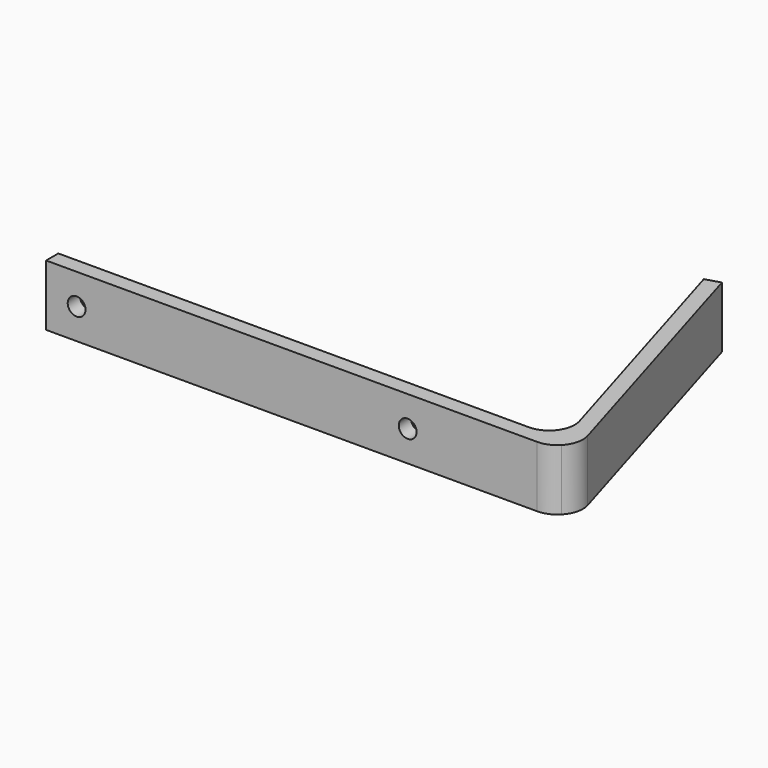
from build123d import *

# Parameters (mm, degrees)
F1_DEPTH = 12
F2_R     = 1.75
F3_DEPTH = 25
F4_R     = 1.75
F5_DEPTH = 3


with BuildPart() as f1:
    # F0 (on Top) → F1 (new body)
    with BuildSketch(Plane.XY):
        with BuildLine():
            Line((27.767113, -2.79632), (-64.62246, -2.79632))
            Line((-64.62246, -2.79632), (-64.62246, -5.79632))
            Line((-64.62246, -5.79632), (31.795225, -5.79632))
            ThreePointArc((31.795225, -5.79632), (33.739366, -5.402871), (35.37754, -4.284446))
            ThreePointArc((35.37754, -4.284446), (36.650982, -1.988637), (36.585713, 0.635888))
            Line((36.585713, 0.635888), (20.862872, 53.226081))
            Line((20.862872, 53.226081), (17.988579, 52.366756))
            Line((17.988579, 52.366756), (32.557601, 3.635888))
            ThreePointArc((32.557601, 3.635888), (31.777165, -0.78287), (27.767113, -2.79632))
        make_face()
    extrude(amount=F1_DEPTH)

    # F2 (on face) → F3 (cut)
    with BuildSketch(Plane.XZ.offset(5.79632)):
        with Locations((-58.62246, 6)):
            Circle(F2_R)
    extrude(amount=-F3_DEPTH, mode=Mode.SUBTRACT)

    # F4 (on face) → F5 (cut)
    with BuildSketch(Plane.XZ.offset(5.79632)):
        with Locations((6.37754, 6)):
            Circle(F4_R)
    extrude(amount=-F5_DEPTH, mode=Mode.SUBTRACT)


solid = f1.part
